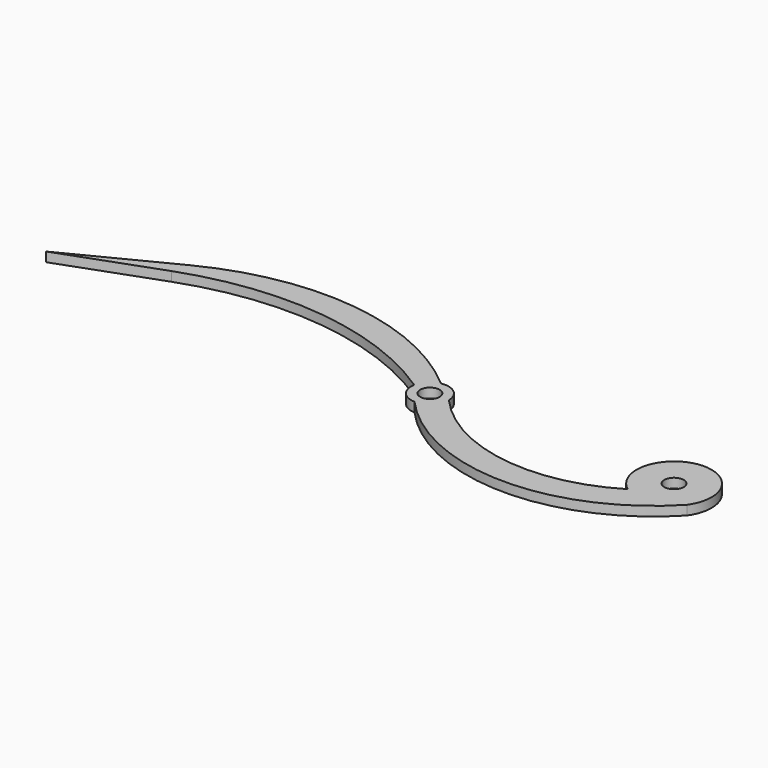
from build123d import *

# Parameters (mm, degrees)
F0_R     = 1.651
F1_DEPTH = 1.6002


with BuildPart() as f1:
    # F0 (on Top) → F1 (new body)
    with BuildSketch(Plane.XY):
        with BuildLine():
            ThreePointArc((-3.774051, -5.106764), (-21.934308, -8.777509), (-38.227296, 0.043366))
            ThreePointArc((-38.227296, 0.043366), (-39.403324, 2.466965), (-42.018165, 3.114637))
            ThreePointArc((-42.018165, 3.114637), (-64.733422, 13.156228), (-89.188089, 8.82198))
            Line((-89.188089, 8.82198), (-106.5022, 0))
            Line((-106.5022, 0), (-90.018623, 5.999531))
            ThreePointArc((-90.018623, 5.999531), (-66.625194, 8.705331), (-44.525194, 0.571215))
            ThreePointArc((-44.525194, 0.571215), (-43.86651, -2.001703), (-41.483321, -3.173958))
            ThreePointArc((-41.483321, -3.173958), (-18.287164, -13.645991), (5.147266, -3.718622))
            ThreePointArc((5.147266, -3.718622), (-0.976301, 6.274499), (-3.774051, -5.106764))
        make_face()
        with Locations((-41.402, 0)):
            Circle(F0_R, mode=Mode.SUBTRACT)
        Circle(F0_R, mode=Mode.SUBTRACT)
    extrude(amount=F1_DEPTH)


solid = f1.part
